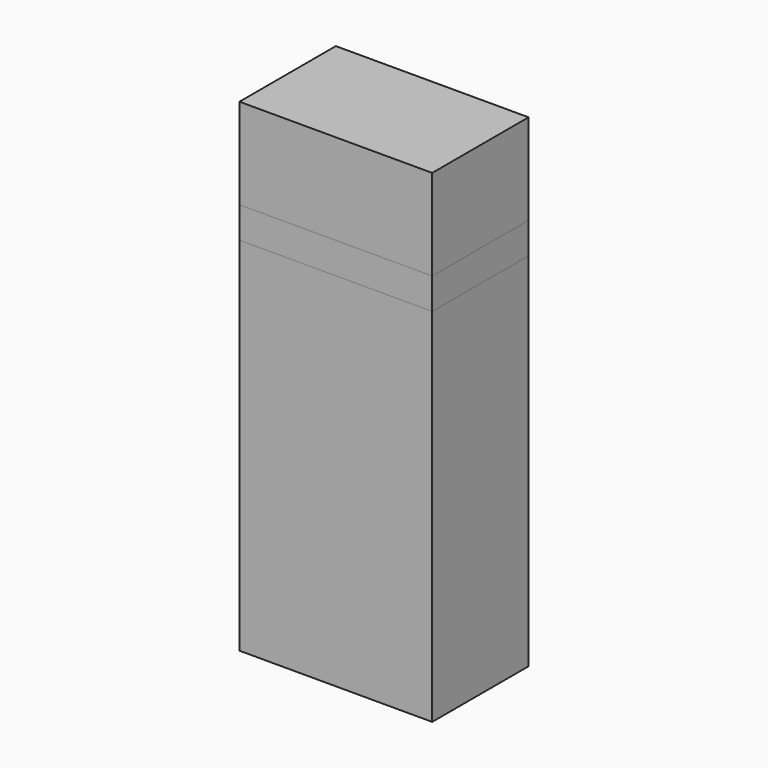
from build123d import *

# Parameters (mm, degrees)
F0_W     = 40
F0_H     = 18.829
F1_DEPTH = 25
F0_H_2   = 6.475
F2_DEPTH = 25
F3_DEPTH = 25


with BuildPart() as f1:
    # F0 (on Front) → F1 (new body)
    with BuildSketch(Plane.XZ):
        with Locations((0, 70.8895)):
            Rectangle(F0_W, F0_H)
    extrude(amount=F1_DEPTH)


with BuildPart() as f2:
    # F0 (on Front) → F2 (new body)
    with BuildSketch(Plane.XZ):
        with Locations((0, 58.2375)):
            Rectangle(F0_W, F0_H_2)
    extrude(amount=F2_DEPTH)


with BuildPart() as f3:
    # F0 (on Front) → F3 (new body)
    with BuildSketch(Plane.XZ):
        Polygon((-20, -20), (0, -20), (20, -20), (20, 55), (-20, 55), align=None)
    extrude(amount=F3_DEPTH)


solid = Compound([f1.part, f2.part, f3.part])
